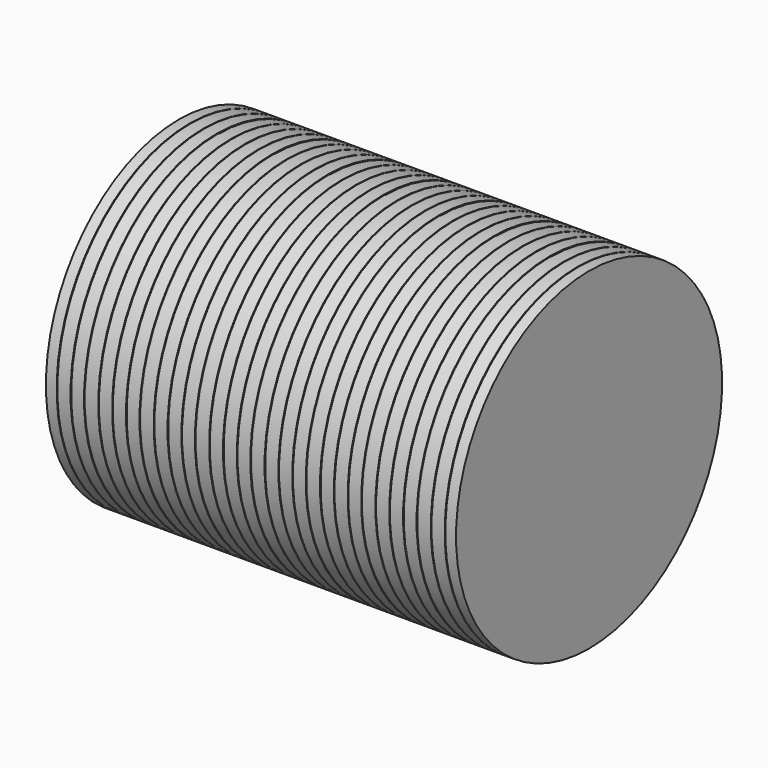
from build123d import *


with BuildPart() as f1:
    # F0 (on Front) → F1 (revolve)
    with BuildSketch(Plane.XZ):
        Polygon((3.175, 758.825), (0, 758.825), (-3.175, 758.825), (-3.175, 762), (-62, 762), (-62, 755.65), (-63.5, 755.65), (-65, 755.65), (-65, 762), (-125.5, 762), (-125.5, 755.65), (-127, 755.65), (-128.5, 755.65), (-128.5, 762), (-189, 762), (-189, 755.65), (-190.5, 755.65), (-192, 755.65), (-192, 762), (-250.825, 762), (-250.825, 758.825), (-254, 758.825), (-257.175, 758.825), (-257.175, 762), (-316, 762), (-316, 755.65), (-317.5, 755.65), (-319, 755.65), (-319, 762), (-379.5, 762), (-379.5, 755.65), (-381, 755.65), (-382.5, 755.65), (-382.5, 762), (-443, 762), (-443, 755.65), (-444.5, 755.65), (-446, 755.65), (-446, 762), (-504.825, 762), (-504.825, 758.825), (-508, 758.825), (-511.175, 758.825), (-511.175, 762), (-570, 762), (-570, 755.65), (-571.5, 755.65), (-573, 755.65), (-573, 762), (-633.5, 762), (-633.5, 755.65), (-635, 755.65), (-636.5, 755.65), (-636.5, 762), (-697, 762), (-697, 755.65), (-698.5, 755.65), (-700, 755.65), (-700, 762), (-758.825, 762), (-758.825, 758.825), (-762, 758.825), (-765.175, 758.825), (-765.175, 762), (-824, 762), (-824, 755.65), (-825.5, 755.65), (-827, 755.65), (-827, 762), (-887.5, 762), (-887.5, 755.65), (-889, 755.65), (-890.5, 755.65), (-890.5, 762), (-939.8, 762), (-939.8, 755.65), (-939.8, 0), (939.8, 0), (939.8, 762), (890.5, 762), (890.5, 755.65), (889, 755.65), (887.5, 755.65), (887.5, 762), (827, 762), (827, 755.65), (825.5, 755.65), (824, 755.65), (824, 762), (765.175, 762), (765.175, 758.825), (762, 758.825), (758.825, 758.825), (758.825, 762), (700, 762), (700, 755.65), (698.5, 755.65), (697, 755.65), (697, 762), (636.5, 762), (636.5, 755.65), (635, 755.65), (633.5, 755.65), (633.5, 762), (573, 762), (573, 755.65), (571.5, 755.65), (570, 755.65), (570, 762), (511.175, 762), (511.175, 758.825), (508, 758.825), (504.825, 758.825), (504.825, 762), (446, 762), (446, 755.65), (444.5, 755.65), (443, 755.65), (443, 762), (382.5, 762), (382.5, 755.65), (381, 755.65), (379.5, 755.65), (379.5, 762), (319, 762), (319, 755.65), (317.5, 755.65), (316, 755.65), (316, 762), (257.175, 762), (257.175, 758.825), (254, 758.825), (250.825, 758.825), (250.825, 762), (192, 762), (192, 755.65), (190.5, 755.65), (189, 755.65), (189, 762), (128.5, 762), (128.5, 755.65), (127, 755.65), (125.5, 755.65), (125.5, 762), (65, 762), (65, 755.65), (63.5, 755.65), (62, 755.65), (62, 762), (3.175, 762), align=None)
    revolve(axis=Axis((0, 0, 0), (1, 0, 0)))


solid = f1.part
